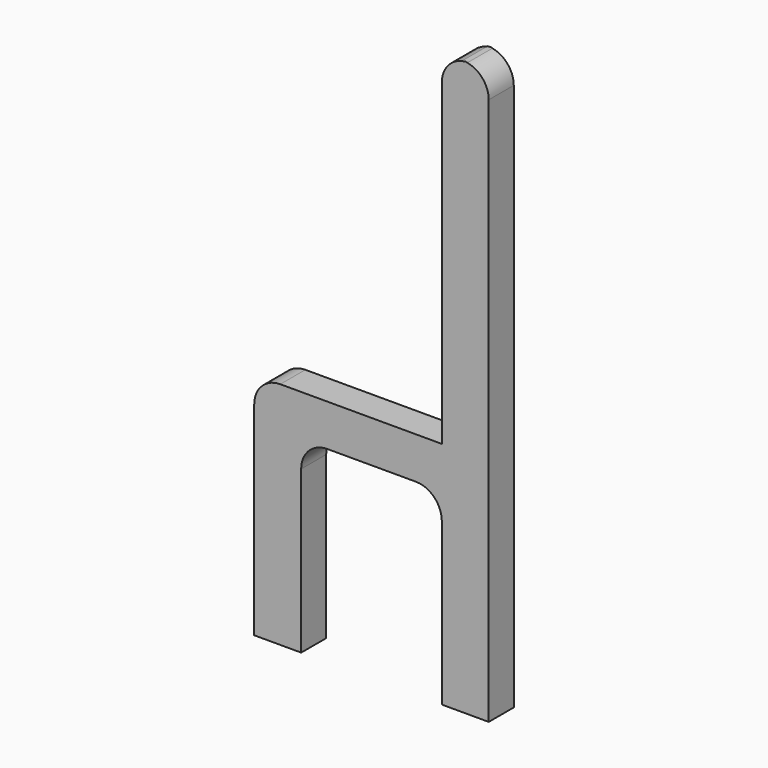
from build123d import *

# Parameters (mm, degrees)
F1_DEPTH = 7.62


with BuildPart() as f1:
    # F0 (on Front) → F1 (new body)
    with BuildSketch(Plane.XZ):
        with BuildLine():
            ThreePointArc((-1.594196, 70.65798), (-1.276298, 70.650018), (-0.959196, 70.62615))
            ThreePointArc((-0.959196, 70.62615), (-0.642095, 70.650018), (-0.324196, 70.65798))
            Line((-0.324196, 70.65798), (-1.594196, 70.65798))
        make_face()
        with BuildLine():
            Line((-52.342728, -19.51202), (-52.342728, -69.04202))
            Line((-52.342728, -69.04202), (-40.912728, -69.04202))
            Line((-40.912728, -69.04202), (-40.912728, -29.67202))
            ThreePointArc((-40.912728, -29.67202), (-39.052856, -25.181892), (-34.562728, -23.32202))
            Line((-34.562728, -23.32202), (-13.024196, -23.32202))
            ThreePointArc((-13.024196, -23.32202), (-8.534068, -25.181892), (-6.674196, -29.67202))
            Line((-6.674196, -29.67202), (-6.674196, -69.04202))
            Line((-6.674196, -69.04202), (4.755804, -69.04202))
            Line((4.755804, -69.04202), (4.755804, -13.16202))
            Line((4.755804, -13.16202), (4.755804, 64.30798))
            ThreePointArc((4.755804, 64.30798), (3.11509, 68.56769), (-0.959196, 70.62615))
            ThreePointArc((-0.959196, 70.62615), (-5.033482, 68.56769), (-6.674196, 64.30798))
            Line((-6.674196, 64.30798), (-6.674196, -13.16202))
            Line((-6.674196, -13.16202), (-45.992728, -13.16202))
            ThreePointArc((-45.992728, -13.16202), (-50.482856, -15.021892), (-52.342728, -19.51202))
        make_face()
    extrude(amount=F1_DEPTH)


solid = f1.part
